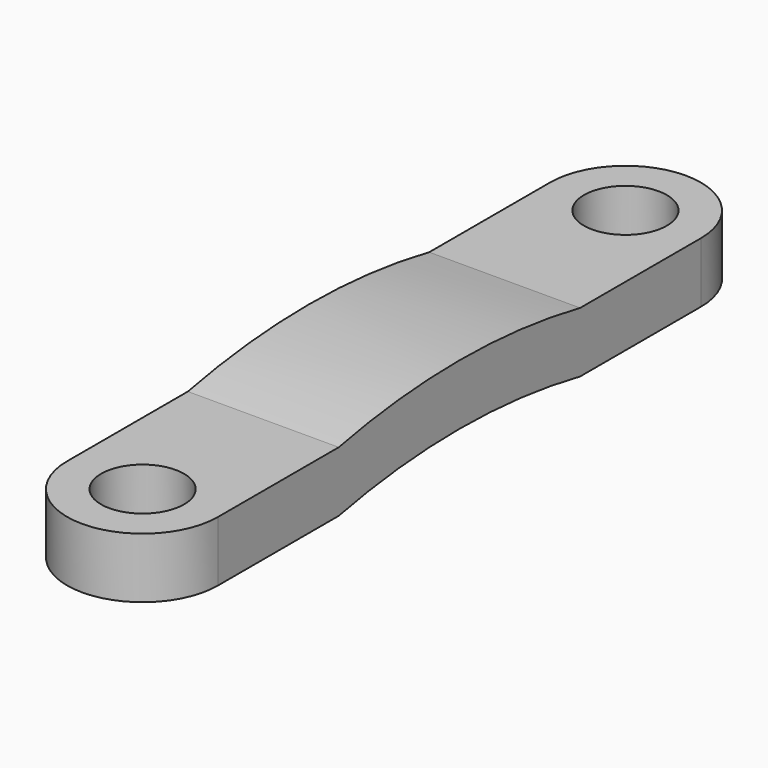
from build123d import *

# Parameters (mm, degrees)
F1_DEPTH = 4
F2_D     = 5.5
F2_DEPTH = 7
F2_TIP   = 1.6523667023
F3_W     = 5
F3_H     = 4
F4_DEPTH = 5
F6_DEPTH = 4
F7_D     = 5.5
F7_DEPTH = 7
F7_TIP   = 1.6523667023


with BuildPart() as f1:
    # F0 (on Top) → F1 (new body)
    with BuildSketch(Plane.XY):
        with BuildLine():
            Line((-5, 5), (-5, 0))
            ThreePointArc((-5, 0), (0, -5), (5, 0))
            Line((5, 0), (5, 5))
            Line((5, 5), (-5, 5))
        make_face()
    extrude(amount=F1_DEPTH)

    # F2
    with Locations(Plane(origin=(0, 0, 0), x_dir=(1, 0, 0), z_dir=(0, 0, -1))):
        with Locations((0, 0)):
            Hole(F2_D / 2, depth=F2_DEPTH)
            with Locations((0, 0, -(F2_DEPTH + F2_TIP / 2))):  # 118° drill point
                Cone(0, F2_D / 2, F2_TIP, mode=Mode.SUBTRACT)

    # F3 (on Right) → F4 (join, symmetric)
    with BuildSketch(Plane.YZ):
        with Locations((7.5, 2)):
            Rectangle(F3_W, F3_H)
        with BuildLine():
            Line((10, 4), (10, 0))
            ThreePointArc((10, 0), (14.9745518997, 0.7570127946), (20, 1.0102051443))
            Line((20, 1.0102051443), (20, 5.0102051443))
            ThreePointArc((20, 5.0102051443), (14.9745518997, 4.7570127946), (10, 4))
        make_face()
        with BuildLine():
            Line((20, 5.0102051443), (20, 1.0102051443))
            ThreePointArc((20, 1.0102051443), (25.0254481003, 0.7570127946), (30, 0))
            Line((30, 0), (30, 4))
            ThreePointArc((30, 4), (25.0254481003, 4.7570127946), (20, 5.0102051443))
        make_face()
        with Locations((32.5, 2)):
            Rectangle(F3_W, F3_H)
    extrude(amount=F4_DEPTH, both=True)

    # F5 (on Top) → F6 (join)
    with BuildSketch(Plane.XY):
        with BuildLine():
            Line((5, 35), (5, 40))
            ThreePointArc((5, 40), (0, 45), (-5, 40))
            Line((-5, 40), (-5, 35))
            Line((-5, 35), (5, 35))
        make_face()
    extrude(amount=F6_DEPTH)

    # F7
    with Locations(Plane(origin=(0, 0, 0), x_dir=(1, 0, 0), z_dir=(0, 0, -1))):
        with Locations((0, -40)):
            Hole(F7_D / 2, depth=F7_DEPTH)
            with Locations((0, 0, -(F7_DEPTH + F7_TIP / 2))):  # 118° drill point
                Cone(0, F7_D / 2, F7_TIP, mode=Mode.SUBTRACT)


solid = f1.part
